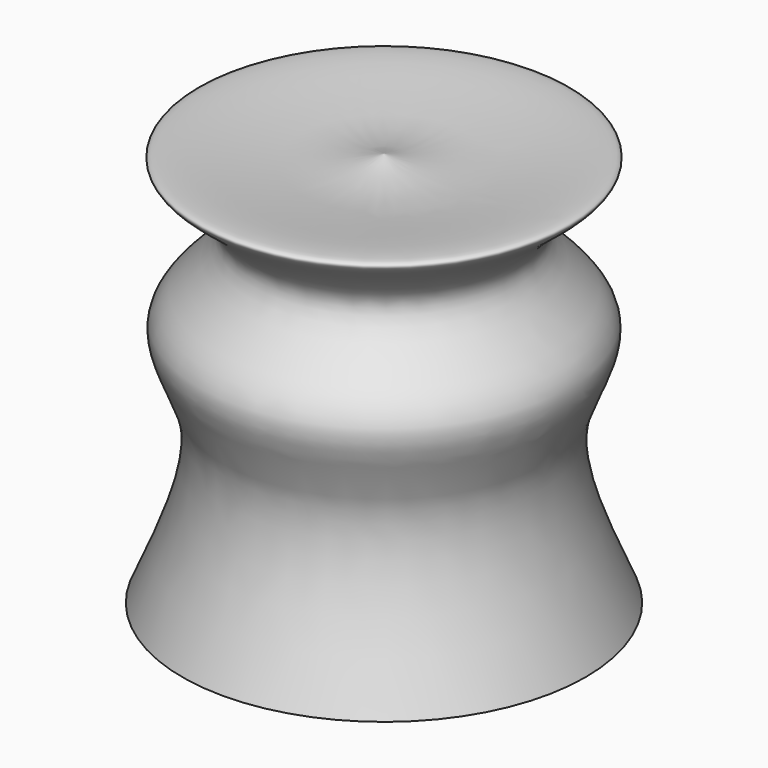
from build123d import *


with BuildPart() as f1:
    # F0 (on Front) → F1 (revolve)
    with BuildSketch(Plane.XZ):
        with BuildLine():
            add(Edge.make_bspline(
                [(26.6915876418, -50.5833551288), (20.7595182248, -36.8503403127), (10.4546744082, -12.9941506997), (30.5914408269, 9.2184278801), (-1.0043902517, 26.273252897), (36.5254360552, 46.0332963603), (-5.9917120781, 37.2670022595), (-15.9006543411, 40.2747879423), (-20.3453265131, 41.6239351034)],
                knots=[0, 0, 0, 0, 0.2154997963, 0.374353634, 0.5343045011, 0.6825176715, 0.857592785, 1, 1, 1, 1], degree=3))
            Line((-20.3453265131, 41.6239351034), (-20.3453265131, -50.5833551288))
            Line((-20.3453265131, -50.5833551288), (26.6915876418, -50.5833551288))
        make_face()
    revolve(axis=Axis((-20.3453265131, 0, -4.4797100127), (0, 0, -1)))


solid = f1.part
